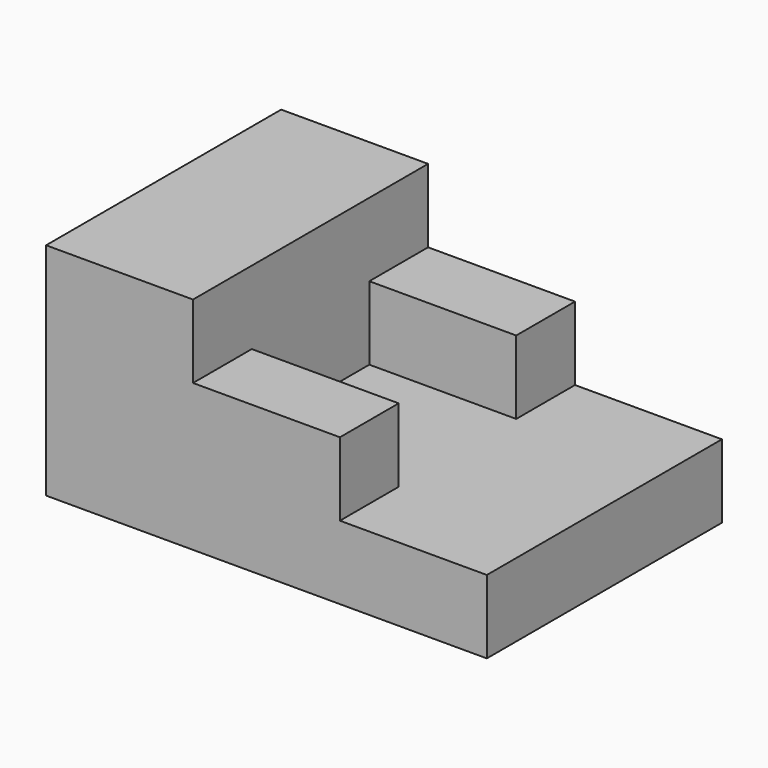
from build123d import *

# Parameters (mm, degrees)
F0_W     = 60
F0_H     = 30
F1_DEPTH = 40
F2_W     = 40
F2_H     = 10
F3_DEPTH = 40
F4_W     = 20
F4_H     = 10
F5_DEPTH = 40
F6_W     = 20
F6_H     = 20
F7_DEPTH = 10


with BuildPart() as f1:
    # F0 (on Front) → F1 (new body)
    with BuildSketch(Plane.XZ):
        with Locations((30, 15)):
            Rectangle(F0_W, F0_H)
    extrude(amount=F1_DEPTH)

    # F2 (on face) → F3 (cut)
    with BuildSketch(Plane.XZ.offset(40)):
        with Locations((40, 25)):
            Rectangle(F2_W, F2_H)
    extrude(amount=-F3_DEPTH, mode=Mode.SUBTRACT)

    # F4 (on face) → F5 (cut)
    with BuildSketch(Plane.XZ.offset(40)):
        with Locations((50, 15)):
            Rectangle(F4_W, F4_H)
    extrude(amount=-F5_DEPTH, mode=Mode.SUBTRACT)

    # F6 (on face) → F7 (cut)
    with BuildSketch(Plane.XY.offset(20)):
        with Locations((30, -20)):
            Rectangle(F6_W, F6_H)
    extrude(amount=-F7_DEPTH, mode=Mode.SUBTRACT)


solid = f1.part
